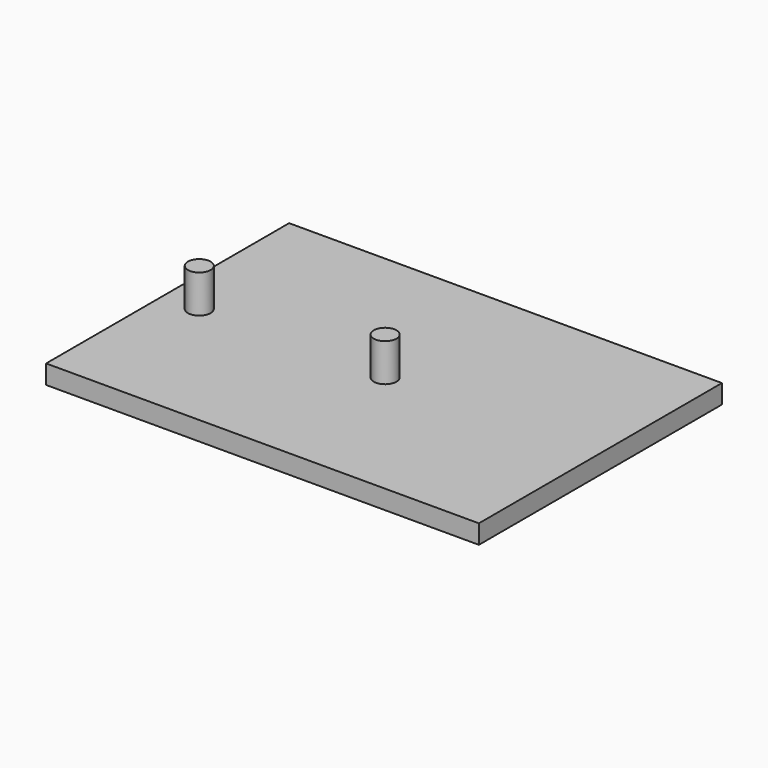
from build123d import *

# Parameters (mm, degrees)
F0_R     = 3
F1_DEPTH = 10
F2_W     = 114.1267567873
F2_H     = 80.1076181233
F3_DEPTH = 5


with BuildPart() as f1:
    # F0 (on Top) → F1 (new body)
    with BuildSketch(Plane.XY):
        with Locations((-49, 0)):
            Circle(F0_R)
    extrude(amount=F1_DEPTH)



with BuildPart() as f1b:
    # F0 (on Top) → F1, piece 2 (new body)
    with BuildSketch(Plane.XY):
        with BuildLine():
            ThreePointArc((-3, 0), (0, -3), (3, 0))
            ThreePointArc((3, 0), (0, 3), (-3, 0))
        make_face()
    extrude(amount=F1_DEPTH)


with BuildPart() as f1_1:
    add(f1.part)

    add(f1b.part)  # F3 merges F1b
    # F2 (on Top) → F3 (join)
    with BuildSketch(Plane.XY):
        with Locations((-1.3738982379, 1.3595465571)):
            Rectangle(F2_W, F2_H)
    extrude(amount=-F3_DEPTH)


solid = f1_1.part
